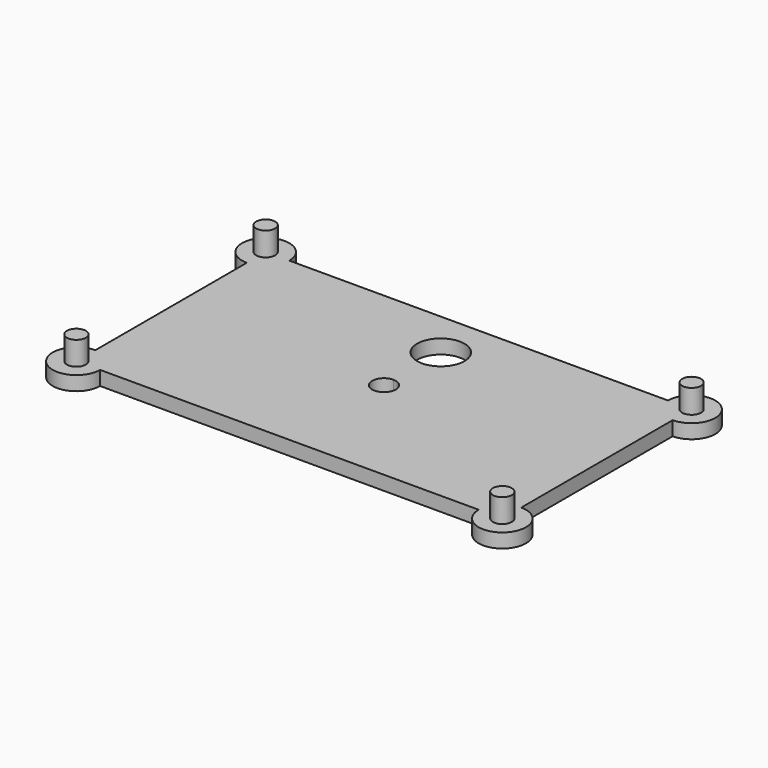
from build123d import *

# Parameters (mm, degrees)
F0_R     = 2
F1_DEPTH = 3
F2_DEPTH = 8
F4_DEPTH = 4


with BuildPart() as f1:
    # F0 (on Top) → F1 (new body)
    with BuildSketch(Plane.XY):
        with BuildLine():
            Line((40, 25), (-40, 25))
            ThreePointArc((-40, 25), (-48.535534, 28.535534), (-45, 20))
            Line((-45, 20), (-45, -20))
            ThreePointArc((-45, -20), (-48.535534, -28.535534), (-40, -25))
            Line((-40, -25), (40, -25))
            ThreePointArc((40, -25), (48.535534, -28.535534), (45, -20))
            Line((45, -20), (45, 20))
            ThreePointArc((45, 20), (48.535534, 28.535534), (40, 25))
        make_face()
        with Locations((-45, -25)):
            Circle(F0_R, mode=Mode.SUBTRACT)
        with Locations((45, -25)):
            Circle(F0_R, mode=Mode.SUBTRACT)
        with Locations((-45, 25)):
            Circle(F0_R, mode=Mode.SUBTRACT)
        with Locations((45, 25)):
            Circle(F0_R, mode=Mode.SUBTRACT)
    extrude(amount=F1_DEPTH)

    # F0 (on Top) → F2 (join)
    with BuildSketch(Plane.XY):
        with Locations((-45, -25)):
            Circle(F0_R)
        with Locations((45, -25)):
            Circle(F0_R)
        with Locations((45, 25)):
            Circle(F0_R)
        with Locations((-45, 25)):
            Circle(F0_R)
    extrude(amount=F2_DEPTH)

    # F3 (on Top) → F4 (cut)
    with BuildSketch(Plane.XY):
        with BuildLine():
            ThreePointArc((2.5, 0), (1.767767, 1.767767), (0, 2.5))
            ThreePointArc((0, 2.5), (-1.767767, -1.767767), (2.5, 0))
        make_face()
        with BuildLine():
            ThreePointArc((5, 15), (-3.535534, 18.535534), (0, 10))
            ThreePointArc((0, 10), (3.535534, 11.464466), (5, 15))
        make_face()
    extrude(amount=F4_DEPTH, mode=Mode.SUBTRACT)


solid = f1.part
